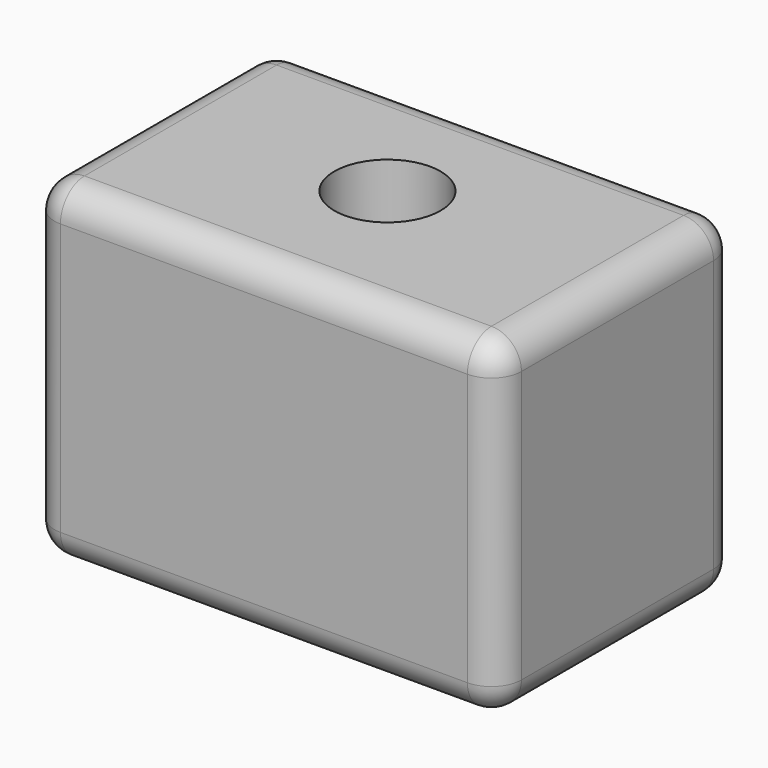
from build123d import *

# Parameters (mm, degrees)
F0_W     = 79.0346935391
F0_H     = 56.1182498932
F1_DEPTH = 50.8
F2_R     = 5.08
F3_R     = 8.9977946324
F4_DEPTH = 56.1192498932


with BuildPart() as f1:
    # F0 (on Front) → F1 (new body)
    with BuildSketch(Plane.XZ):
        with Locations((10.1048909128, 1.1728554964)):
            Rectangle(F0_W, F0_H)
    extrude(amount=F1_DEPTH)

    # F2
    f2_edges = [f1.edges().sort_by_distance(p)[0] for p in [
        (10.104891, -50.8, -26.886269),
        (-29.412456, -50.8, 1.172855),
        (10.104891, -50.8, 29.23198),
        (49.622238, -50.8, 1.172855),
        (49.622238, -25.4, -26.886269),
        (10.104891, 0, -26.886269),
        (-29.412456, -25.4, -26.886269),
        (49.622238, -25.4, 29.23198),
        (10.104891, 0, 29.23198),
        (-29.412456, 0, 1.172855),
        (49.622238, 0, 1.172855),
        (-29.412456, -25.4, 29.23198),
    ]]
    fillet(f2_edges, radius=F2_R)

    # F3 (on face) → F4 (cut, through all)
    with BuildSketch(Plane.XY.offset(29.231980443)):
        with Locations((9.6274446696, -24.0743868053)):
            Circle(F3_R)
    extrude(amount=-F4_DEPTH, mode=Mode.SUBTRACT)


solid = f1.part
